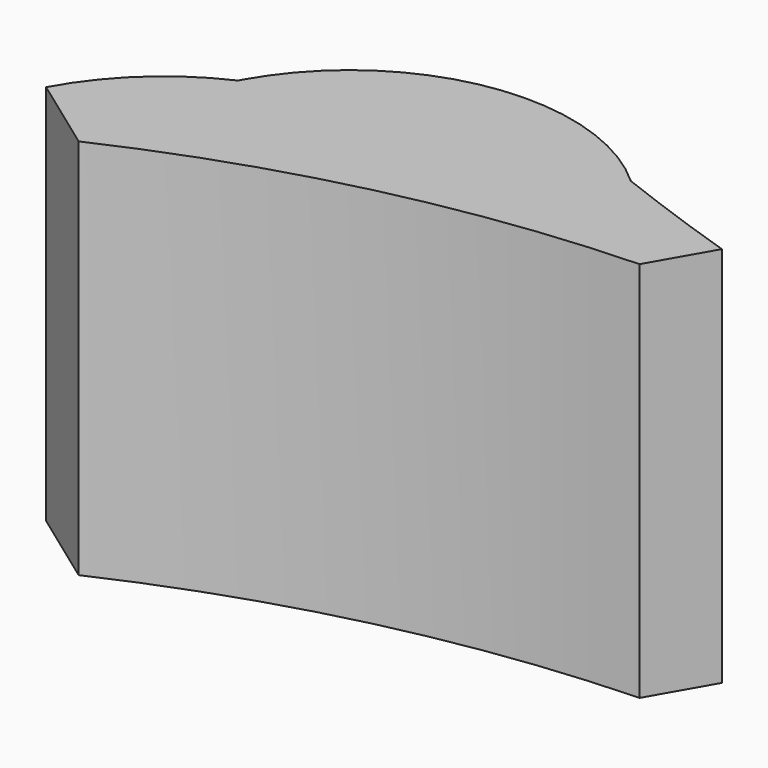
from build123d import *

# Parameters (mm, degrees)
F1_DEPTH = 25.4


with BuildPart() as f1:
    # F0 (on Top) → F1 (new body)
    with BuildSketch(Plane.XY):
        with BuildLine():
            ThreePointArc((-25.037466, 24.070084), (-25.119098, 23.924625), (-25.199085, 23.778256))
            ThreePointArc((-25.199085, 23.778256), (-25.116651, 23.92327), (-25.037466, 24.070084))
        make_face()
        with BuildLine():
            ThreePointArc((0, 25.181762), (3.144174, 25.008082), (6.275297, 24.673315))
            ThreePointArc((6.275297, 24.673315), (2.010786, 26.126153), (-2.209028, 27.704114))
            ThreePointArc((-2.209028, 27.704114), (-1.03287, 26.505682), (0, 25.181762))
        make_face()
        with BuildLine():
            ThreePointArc((-25.199085, 23.778256), (-29.408241, 20.966383), (-32.517433, 16.971819))
            ThreePointArc((-32.517433, 16.971819), (-29.608499, 18.550282), (-26.618683, 19.969595))
            ThreePointArc((-26.618683, 19.969595), (-26.040227, 21.92288), (-25.199085, 23.778256))
        make_face()
        with BuildLine():
            ThreePointArc((-27.383102, 13.26369), (-12.063925, 18.533213), (3.993366, 20.679947))
            Line((3.993366, 20.679947), (6.275297, 24.673315))
            ThreePointArc((6.275297, 24.673315), (3.144174, 25.008082), (0, 25.181762))
            ThreePointArc((0, 25.181762), (-13.600973, 24.065045), (-26.618683, 19.969595))
            ThreePointArc((-26.618683, 19.969595), (-29.608499, 18.550282), (-32.517433, 16.971819))
            Line((-32.517433, 16.971819), (-27.383102, 13.26369))
        make_face()
        with BuildLine():
            ThreePointArc((-26.618683, 19.969595), (-13.600973, 24.065045), (0, 25.181762))
            ThreePointArc((0, 25.181762), (-1.03287, 26.505682), (-2.209028, 27.704114))
            ThreePointArc((-2.209028, 27.704114), (-14.496371, 31.371933), (-25.037466, 24.070084))
            ThreePointArc((-25.037466, 24.070084), (-25.116651, 23.92327), (-25.199085, 23.778256))
            ThreePointArc((-25.199085, 23.778256), (-26.040227, 21.92288), (-26.618683, 19.969595))
        make_face()
    extrude(amount=F1_DEPTH)


solid = f1.part
